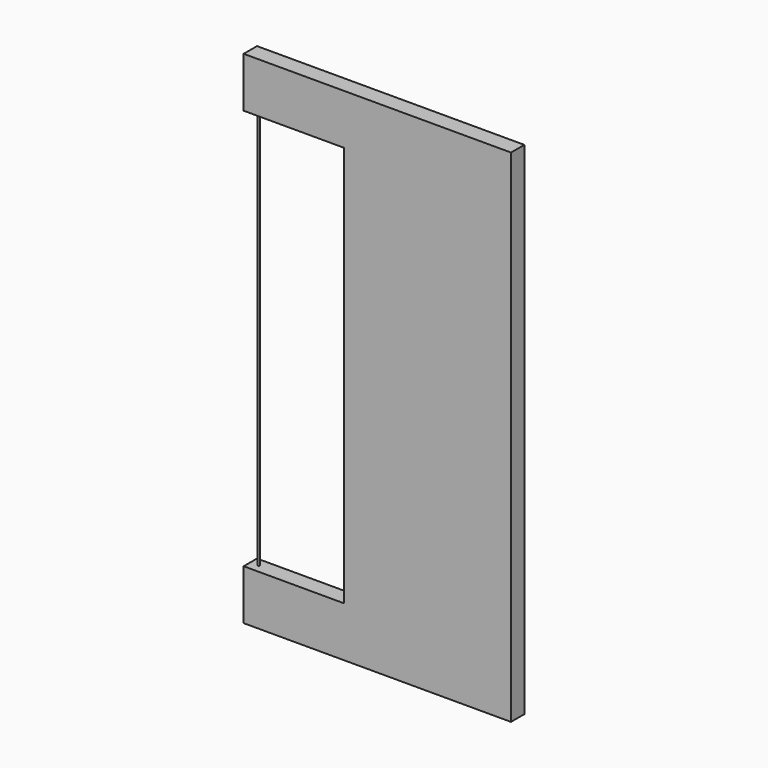
from build123d import *

# Parameters (mm, degrees)
F1_DEPTH = 10
F2_R     = 0.5
F3_DEPTH = 240
F5_DEPTH = 20


with BuildPart() as f1:
    # F0 (on Front) → F1 (new body)
    with BuildSketch(Plane.XZ):
        Polygon((82.249313, 125.919251), (142.249313, 125.919251), (142.249313, -114.080749), (82.249313, -114.080749), (82.249313, -144.080749), (142.249313, -144.080749), (242.249313, -144.080749), (242.249313, 155.919251), (142.249313, 155.919251), (82.249313, 155.919251), align=None)
    extrude(amount=F1_DEPTH)

    # F2 (on face) → F3 (join, through all)
    with BuildSketch(Plane.XY.offset(-114.080749)):
        with Locations((87.249313, -5)):
            Circle(F2_R)
    extrude(amount=F3_DEPTH)

    # F4 (on face) → F5 (join)
    with BuildSketch(Plane.XZ.offset(10)):
        with BuildLine():
            ThreePointArc((208.744351, 103.722573), (204.638161, 109.479239), (198.881495, 105.373049))
            Line((198.881495, 105.373049), (165.871974, -91.884072))
            ThreePointArc((165.871974, -91.884072), (169.978164, -97.640738), (175.73483, -93.534548))
            Line((175.73483, -93.534548), (208.744351, 103.722573))
        make_face()
    extrude(amount=-F5_DEPTH)


solid = f1.part
